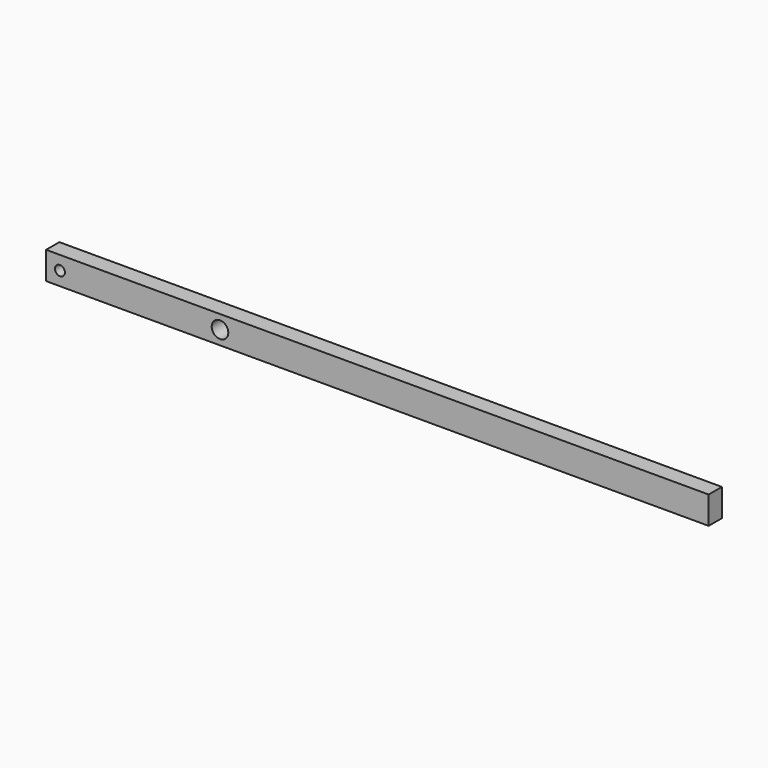
from build123d import *

# Parameters (mm, degrees)
F0_W     = 1219.2
F0_H     = 50.8
F0_R     = 9.144
F0_R_2   = 15.24
F1_DEPTH = 30.48
F2_DEPTH = 30.48
F3_DEPTH = 30.48
F4_DEPTH = 30.48


with BuildPart() as f1:
    # F0 (on Front) → F1 (new body)
    with BuildSketch(Plane.XZ):
        with Locations((609.6, -25.4)):
            Rectangle(F0_W, F0_H)
        with Locations((25.542894, -25.4508)):
            Circle(F0_R, mode=Mode.SUBTRACT)
        with Locations((320.04, -25.3492)):
            Circle(F0_R_2, mode=Mode.SUBTRACT)
    extrude(amount=F1_DEPTH)

    # F0 (on Front) → F2 (join)
    with BuildSketch(Plane.XZ):
        with Locations((609.6, -25.4)):
            Rectangle(F0_W, F0_H)
        with Locations((25.542894, -25.4508)):
            Circle(F0_R, mode=Mode.SUBTRACT)
        with Locations((320.04, -25.3492)):
            Circle(F0_R_2, mode=Mode.SUBTRACT)
    extrude(amount=F2_DEPTH)

    # F0 (on Front) → F3 (join)
    with BuildSketch(Plane.XZ):
        with Locations((609.6, -25.4)):
            Rectangle(F0_W, F0_H)
        with Locations((25.542894, -25.4508)):
            Circle(F0_R, mode=Mode.SUBTRACT)
        with Locations((320.04, -25.3492)):
            Circle(F0_R_2, mode=Mode.SUBTRACT)
    extrude(amount=F3_DEPTH)

    # F0 (on Front) → F4 (join)
    with BuildSketch(Plane.XZ):
        with Locations((609.6, -25.4)):
            Rectangle(F0_W, F0_H)
        with Locations((25.542894, -25.4508)):
            Circle(F0_R, mode=Mode.SUBTRACT)
        with Locations((320.04, -25.3492)):
            Circle(F0_R_2, mode=Mode.SUBTRACT)
    extrude(amount=F4_DEPTH)


solid = f1.part
